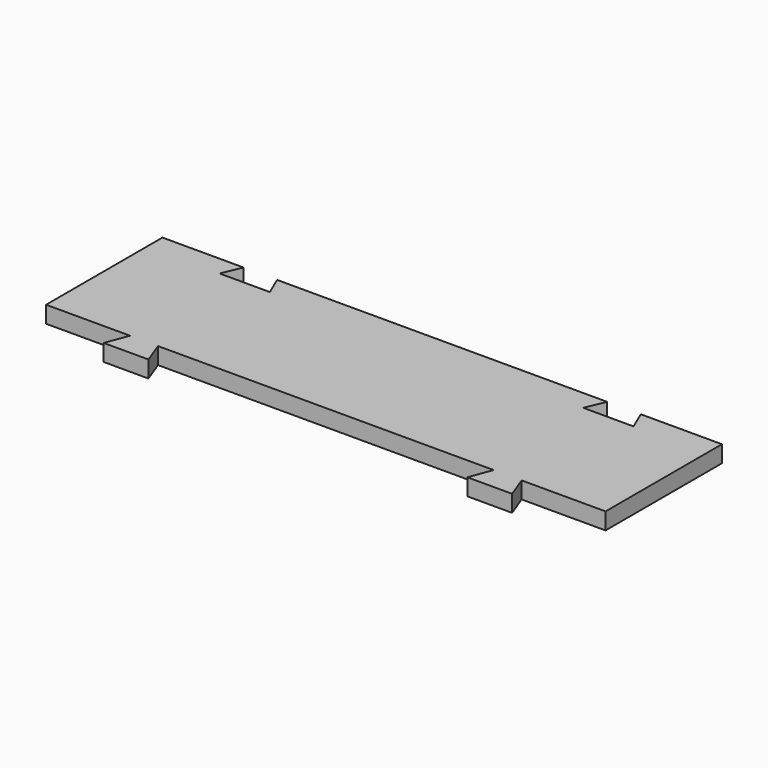
from build123d import *

# Parameters (mm, degrees)
F1_DEPTH = 3


with BuildPart() as f1:
    # F0 (on Top) → F1 (new body)
    with BuildSketch(Plane.XY):
        Polygon((35, -13), (50, -13), (50, 13), (35.5, 13), (37, 9.499648), (28, 9.499648), (29.5, 13), (-29.5, 13), (-28, 9.499648), (-37, 9.499648), (-35.5, 13), (-50, 13), (-50, -13), (-35, -13), (-30, -13), (30, -13), align=None)
        Polygon((-28.5, -17), (-30, -13), (-35, -13), (-36.5, -17), align=None)
        Polygon((36.5, -17), (35, -13), (30, -13), (28.5, -17), align=None)
    extrude(amount=F1_DEPTH)


solid = f1.part
